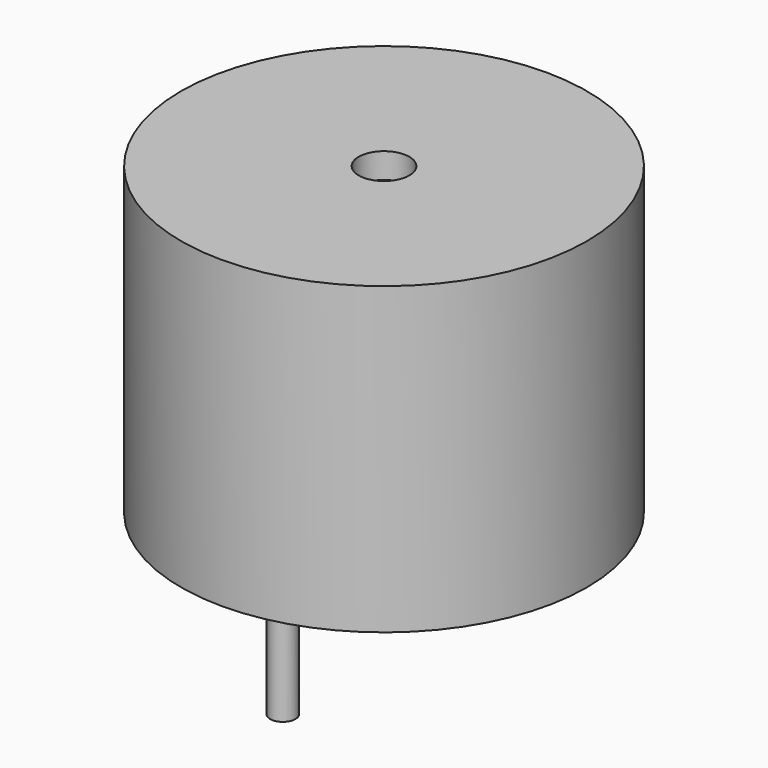
from build123d import *

# Parameters (mm, degrees)
CYLINDER_R     = 8.025
CYLINDER_DEPTH = 12.05
SKETCH_R       = 0.5
PAD_DEPTH      = 5
SKETCH001_R    = 1
POCKET_DEPTH   = 1


with BuildPart() as part:
    # Cylinder → Cylinder (new body)
    with BuildSketch(Plane.XY):
        Circle(CYLINDER_R)
    extrude(amount=CYLINDER_DEPTH)

    # Sketch → Pad (new body)
    with BuildSketch(Plane(origin=(0, 0, 0), x_dir=(1, 0, 0), z_dir=(0, 0, -1))):
        with Locations((0, 5)):
            Circle(SKETCH_R)
        with Locations((0, -5)):
            Circle(SKETCH_R)
    extrude(amount=PAD_DEPTH)

    # Sketch001 → Pocket (cut)
    with BuildSketch(Plane.XY.offset(12.05)):
        Circle(SKETCH001_R)
    extrude(amount=-POCKET_DEPTH, mode=Mode.SUBTRACT)


solid = part.part
